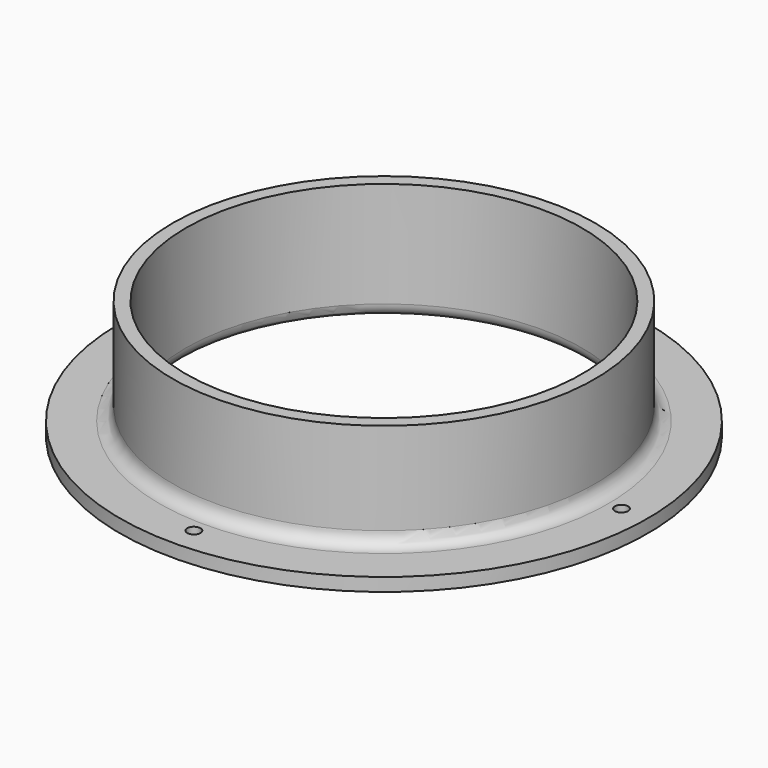
from build123d import *

# Parameters (mm, degrees)
F3_D = 3.175
F4_R = 3.175
F5_R = 3.175


with BuildPart() as f1:
    # F0 (on Front) → F1 (revolve)
    with BuildSketch(Plane.XZ):
        Polygon((-63.5, 3.175), (-63.5, 0), (-47.625, 0), (-47.625, 28.575), (-50.8, 28.575), (-50.8, 3.175), align=None)
    revolve(axis=Axis((0, 0, 11.316922), (0, 0, -1)))

    # F3 (through all)
    with Locations(Plane(origin=(0, 0, 0), x_dir=(1, 0, 0), z_dir=(0, 0, -1))):
        with Locations((-57.15, 0), (0, 57.15), (57.15, 0), (0, -57.15)):
            Hole(F3_D / 2)

    # F4
    f4_edges = [f1.edges().sort_by_distance(p)[0] for p in [
        (47.625, 0, 0),
    ]]
    fillet(f4_edges, radius=F4_R)

    # F5
    f5_edges = [f1.edges().sort_by_distance(p)[0] for p in [
        (50.8, 0, 3.175),
    ]]
    fillet(f5_edges, radius=F5_R)


solid = f1.part
